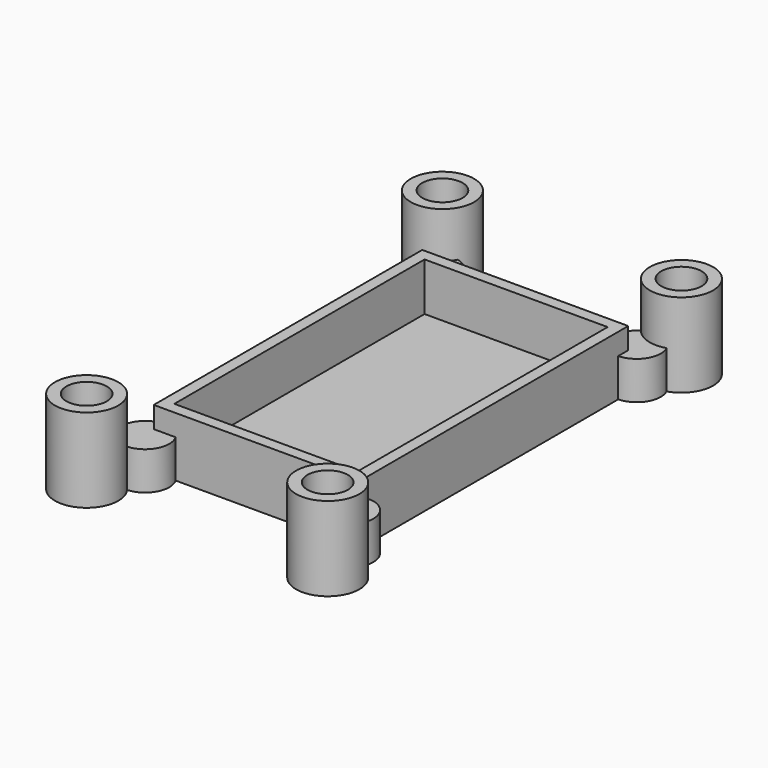
from build123d import *

# Parameters (mm, degrees)
F0_W     = 27
F0_H     = 44
F0_W_2   = 24
F0_H_2   = 41
F2_DEPTH = 7.8
F1_R     = 4.15
F1_R_2   = 2.65
F3_DEPTH = 11
F4_D     = 5.3
F4_2_D   = 5.3
F4_3_D   = 5.3
F4_4_D   = 5.3
F5_DEPTH = 25
F6_T     = -1.5
F7_R     = 3.15
F8_DEPTH = 5


with BuildPart() as f2:
    # F0 (on Top) → F2 (new body)
    with BuildSketch(Plane.XY):
        Rectangle(F0_W, F0_H)
        Rectangle(F0_W_2, F0_H_2, mode=Mode.SUBTRACT)
    extrude(amount=F2_DEPTH)

    # F5 (add): a face of the model
    f5_faces = [f2.faces().sort_by_distance(p)[0] for p in [
        (-12, 0, 3.9),
    ]]
    extrude(f5_faces, amount=F5_DEPTH)

    # F6
    f6_openings = [f2.faces().sort_by_distance(p)[0] for p in [
        (0, 0, 7.8),
    ]]
    offset(amount=F6_T, openings=f6_openings)


with BuildPart() as f3:
    # F1 (on Top) → F3 (new body)
    with BuildSketch(Plane.XY):
        with Locations((-16.2919275463, 29.0945637971)):
            Circle(F1_R)
        with Locations((-16.2919275463, 29.0945637971)):
            Circle(F1_R_2, mode=Mode.SUBTRACT)
        with Locations((-16.2919275463, 29.0945637971)):
            Circle(F1_R_2)
    extrude(amount=F3_DEPTH)

    # F4 (through all)
    with Locations(Plane(origin=(0, 0, 0), x_dir=(1, 0, 0), z_dir=(0, 0, -1))):
        with Locations((-16.2919275463, -29.0945637971), (15.0399841368, -29.0945637971), (14.9656999856, 28.7743732333), (-16.5626499802, 28.8725923747)):
            Hole(F4_D / 2)


with BuildPart() as f3b:
    # F1 (on Top) → F3, piece 2 (new body)
    with BuildSketch(Plane.XY):
        with Locations((15.0399841368, 29.0945637971)):
            Circle(F1_R)
        with Locations((15.0399841368, 29.0945637971)):
            Circle(F1_R_2, mode=Mode.SUBTRACT)
        with Locations((15.0399841368, 29.0945637971)):
            Circle(F1_R_2)
    extrude(amount=F3_DEPTH)

    # F4#2 (through all)
    with Locations(Plane(origin=(0, 0, 0), x_dir=(1, 0, 0), z_dir=(0, 0, -1))):
        with Locations((-16.2919275463, -29.0945637971), (15.0399841368, -29.0945637971), (14.9656999856, 28.7743732333), (-16.5626499802, 28.8725923747)):
            Hole(F4_2_D / 2)


with BuildPart() as f3c:
    # F1 (on Top) → F3, piece 3 (new body)
    with BuildSketch(Plane.XY):
        with Locations((-16.5626499802, -28.8725923747)):
            Circle(F1_R)
        with Locations((-16.5626499802, -28.8725923747)):
            Circle(F1_R_2, mode=Mode.SUBTRACT)
        with Locations((-16.5626499802, -28.8725923747)):
            Circle(F1_R_2)
    extrude(amount=F3_DEPTH)

    # F4#3 (through all)
    with Locations(Plane(origin=(0, 0, 0), x_dir=(1, 0, 0), z_dir=(0, 0, -1))):
        with Locations((-16.2919275463, -29.0945637971), (15.0399841368, -29.0945637971), (14.9656999856, 28.7743732333), (-16.5626499802, 28.8725923747)):
            Hole(F4_3_D / 2)


with BuildPart() as f3d:
    # F1 (on Top) → F3, piece 4 (new body)
    with BuildSketch(Plane.XY):
        with Locations((14.9656999856, -28.7743732333)):
            Circle(F1_R)
        with Locations((14.9656999856, -28.7743732333)):
            Circle(F1_R_2, mode=Mode.SUBTRACT)
        with Locations((14.9656999856, -28.7743732333)):
            Circle(F1_R_2)
    extrude(amount=F3_DEPTH)

    # F4#4 (through all)
    with Locations(Plane(origin=(0, 0, 0), x_dir=(1, 0, 0), z_dir=(0, 0, -1))):
        with Locations((-16.2919275463, -29.0945637971), (15.0399841368, -29.0945637971), (14.9656999856, 28.7743732333), (-16.5626499802, 28.8725923747)):
            Hole(F4_4_D / 2)


with BuildPart() as f8:
    # F7 (on Top) → F8 (new body)
    with BuildSketch(Plane.XY):
        with Locations((13.4139554575, 23.5044695437)):
            Circle(F7_R)
    extrude(amount=F8_DEPTH)


with BuildPart() as f8b:
    # F7 (on Top) → F8, piece 2 (new body)
    with BuildSketch(Plane.XY):
        with Locations((13.3172841743, -23.4783180058)):
            Circle(F7_R)
    extrude(amount=F8_DEPTH)


with BuildPart() as f8c:
    # F7 (on Top) → F8, piece 3 (new body)
    with BuildSketch(Plane.XY):
        with Locations((-13.3642992005, -23.5749911517)):
            Circle(F7_R)
    extrude(amount=F8_DEPTH)


with BuildPart() as f8d:
    # F7 (on Top) → F8, piece 4 (new body)
    with BuildSketch(Plane.XY):
        with Locations((-13.3642992005, 23.6978139728)):
            Circle(F7_R)
    extrude(amount=F8_DEPTH)


with BuildPart() as f3_1:
    # F9: moved
    add(f3.part.moved(Location((0, -0.3, 0))))


with BuildPart() as f3b_1:
    # F9: moved
    add(f3b.part.moved(Location((0, -0.3, 0))))


with BuildPart() as f3d_1:
    # F9: moved
    add(f3d.part.moved(Location((0, -0.3, 0))))


with BuildPart() as f3c_1:
    # F9: moved
    add(f3c.part.moved(Location((0, -0.3, 0))))


solid = Compound([f2.part, f8.part, f8b.part, f8c.part, f8d.part, f3_1.part, f3b_1.part, f3d_1.part, f3c_1.part])
